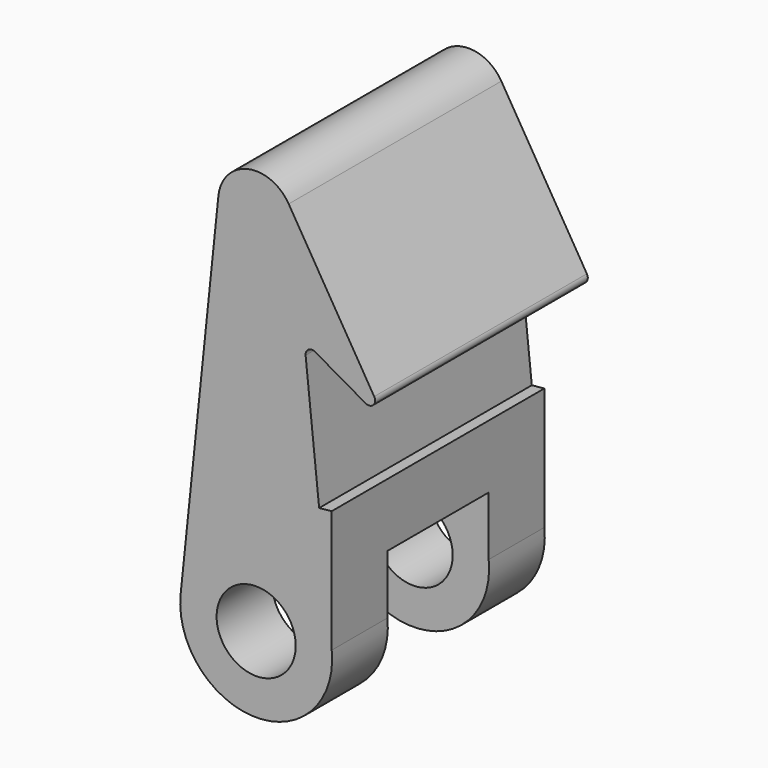
from build123d import *

# Parameters (mm, degrees)
F0_R          = 0.79375
F1_DEPTH      = 5.334
F3_DEPTH      = 5.334
F4_R          = 0.127
F5_W          = 2.54
F5_H          = 2.8669180299
F6_DEPTH      = 3.0408234879
F6_DEPTH_BACK = 0.8715074616
F7_SIZE       = 2.032


with BuildPart() as f1:
    # F0 (on Front) → F1 (new body)
    with BuildSketch(Plane.XZ):
        with BuildLine():
            ThreePointArc((-1.5158234879, 0.1576551724), (0, -1.524), (1.5158234879, 0.1576551724))
            Line((1.5158234879, 0.1576551724), (0.757911744, 7.4448275862))
            ThreePointArc((0.757911744, 7.4448275862), (0, 8.128), (-0.757911744, 7.4448275862))
            Line((-0.757911744, 7.4448275862), (-1.5158234879, 0.1576551724))
        make_face()
        Circle(F0_R, mode=Mode.SUBTRACT)
    extrude(amount=F1_DEPTH)

    # F2 (on face) → F3 (join, through all)
    with BuildSketch(Plane.XZ.offset(5.334)):
        Polygon((1.5158234879, 2.6129180299), (1.2631934914, 2.586642922), (1.5158234879, 0.1576551724), align=None)
        with BuildLine():
            Line((2.62023831, 4.4970114676), (0.6525069605, 7.7595462699))
            ThreePointArc((0.6525069605, 7.7595462699), (0.7225525537, 7.6079954691), (0.757911744, 7.4448275862))
            Line((0.757911744, 7.4448275862), (0.9662072397, 5.4421073456))
            Line((0.9662072397, 5.4421073456), (2.62023831, 4.4970114676))
        make_face()
        with BuildLine():
            Line((2.62023831, 4.4970114676), (0.6525069605, 7.7595462699))
            ThreePointArc((0.6525069605, 7.7595462699), (0.7225525537, 7.6079954691), (0.757911744, 7.4448275862))
            Line((0.757911744, 7.4448275862), (0.9662072397, 5.4421073456))
            Line((0.9662072397, 5.4421073456), (2.62023831, 4.4970114676))
        make_face()
    extrude(amount=-F3_DEPTH)

    # F4
    f4_edges = [f1.edges().sort_by_distance(p)[0] for p in [
        (2.620238, -2.667, 4.497011),
        (0.966207, -2.667, 5.442107),
    ]]
    fillet(f4_edges, radius=F4_R)

    # F5 (on face) → F6 (cut, two sides)
    with BuildSketch(Plane.YZ.offset(1.5158234879)) as f6_sk:
        with Locations((-2.667, -0.090540985)):
            Rectangle(F5_W, F5_H)
    extrude(amount=-F6_DEPTH, mode=Mode.SUBTRACT)
    extrude(f6_sk.sketch, amount=F6_DEPTH_BACK, mode=Mode.SUBTRACT)

    # F7
    f7_edges = [f1.edges().sort_by_distance(p)[0] for p in [
        (-1.392549, -2.667, 1.342918),
    ]]
    chamfer(f7_edges, length=F7_SIZE)


solid = f1.part
